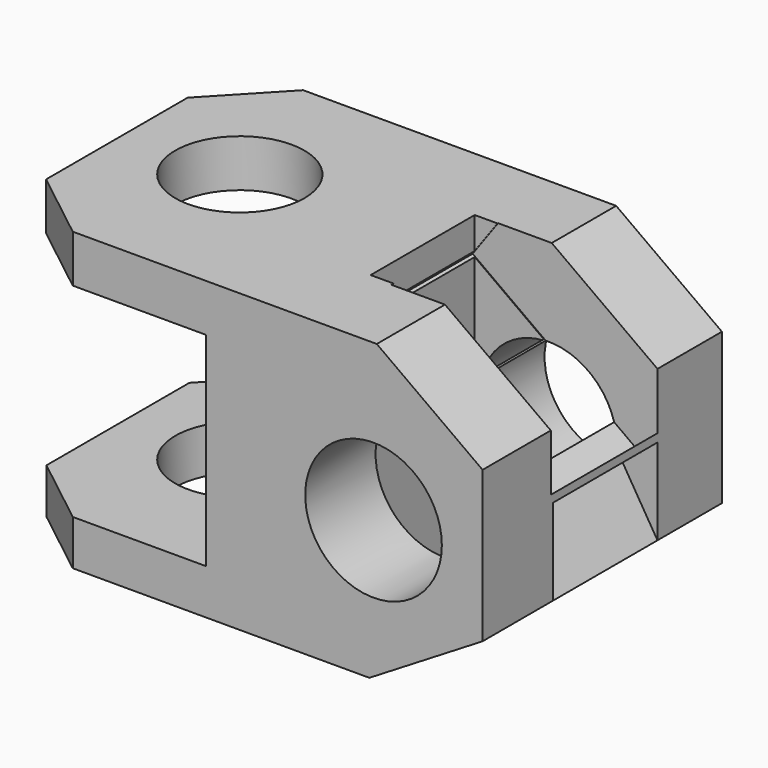
from build123d import *

# Parameters (mm, degrees)
F0_R      = 23.1963594976
F0_W      = 20.5508206286
F0_H      = 16.1379426718
F0_W_2    = 19.1440358758
F0_H_2    = 15.3468698263
F1_DEPTH  = 101.6
F3_DEPTH  = 152.4
F4_R      = 21.9223320718
F5_DEPTH  = 254
F6_W      = 70.3377723694
F6_H      = 45.2993959188
F7_DEPTH  = 25.4
F8_W      = 23.4599709511
F8_H      = 44.165968895
F9_DEPTH  = 254
F10_W     = 16.7544244835
F10_H     = 44.361397624
F11_DEPTH = 25


with BuildPart() as f1:
    # F0 (on Front) → F1 (new body)
    with BuildSketch(Plane.XZ):
        Polygon((40.1767790318, 53.0281364918), (-66.7938407264, 53.0281364918), (-66.7938407264, 36.89019382), (-17.7499198207, 36.89019382), (-17.7499198207, -32.2498530149), (-67.8841918707, -32.2498530149), (-67.8841918707, -47.5967228413), (37.6453399658, -47.5967228413), (76.091632247, -24.1808742285), (76.091632247, 27.0808488131), align=None)
        with Locations((39.0692800283, 0)):
            Circle(F0_R, mode=Mode.SUBTRACT)
        with Locations((-77.0692510407, 44.9591651559)):
            Rectangle(F0_W, F0_H)
        with Locations((-77.4562098086, -39.9232879281)):
            Rectangle(F0_W_2, F0_H_2)
    extrude(amount=F1_DEPTH)

    # F2 (on face) → F3 (cut)
    with BuildSketch(Plane.XY.offset(53.0281364918)):
        Polygon((-87.344661355, 0), (-87.344661355, -22.4940739572), (-66.105723381, 0), align=None)
        Polygon((-87.344661355, 0), (-87.344661355, -22.4940739572), (-66.105723381, 0), align=None)
        Polygon((-63.0609244108, -101.6), (-87.344661355, -82.5703293085), (-87.344661355, -101.6), align=None)
    extrude(amount=-F3_DEPTH, mode=Mode.SUBTRACT)

    # F4 (on face) → F5 (cut)
    with BuildSketch(Plane.XY.offset(53.0281364918)):
        with Locations((-49.0250661969, -48.2343658805)):
            Circle(F4_R)
    extrude(amount=-F5_DEPTH, mode=Mode.SUBTRACT)

    # F6 (on face) → F7 (cut)
    with BuildSketch(Plane(origin=(38.9509155446, 0, 53.9137821149), x_dir=(0.810585134, 0, -0.5856208164), z_dir=(0.5856208164, 0, 0.810585134))):
        with Locations((21.9143256545, -49.9939098954)):
            Rectangle(F6_W, F6_H)
    extrude(amount=-F7_DEPTH, mode=Mode.SUBTRACT)

    # F8 (on face) → F9 (cut)
    with BuildSketch(Plane(origin=(0, 0, -47.5967228413), x_dir=(1, 0, 0), z_dir=(0, 0, -1))):
        with Locations((25.9153544903, 49.6352612972)):
            Rectangle(F8_W, F8_H)
    extrude(amount=-F9_DEPTH, mode=Mode.SUBTRACT)

    # F10 (on face) → F11 (cut)
    with BuildSketch(Plane(origin=(31.3311681007, 0, -51.4423912721), x_dir=(0.8540627897, 0, 0.5201699254), z_dir=(0.5201699254, 0, -0.8540627897))):
        with Locations((60.7860804046, 49.5375469327)):
            Rectangle(F10_W, F10_H)
    extrude(amount=-F11_DEPTH, mode=Mode.SUBTRACT)


solid = f1.part
